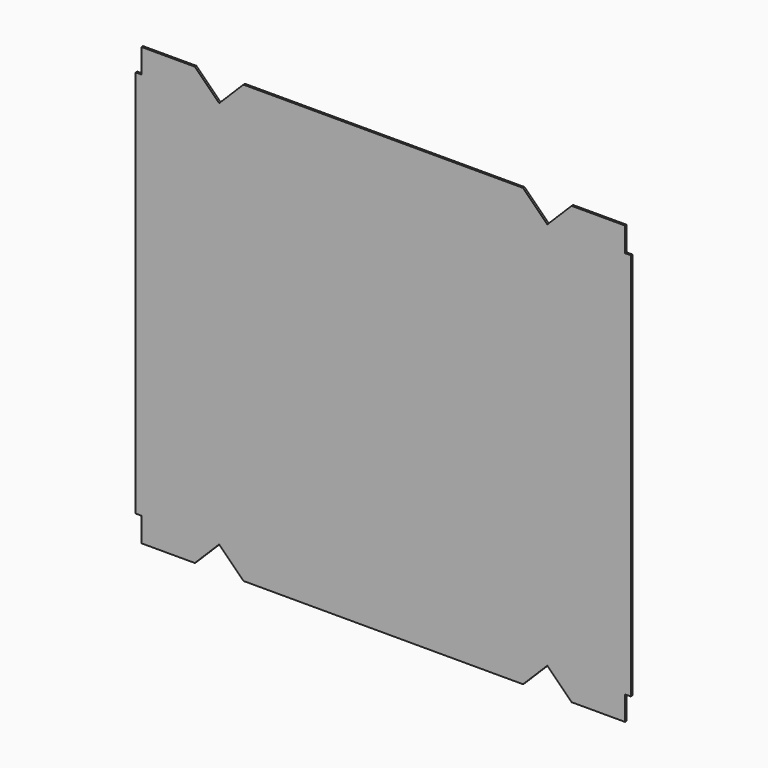
from build123d import *

# Parameters (mm, degrees)
F1_DEPTH = 2


with BuildPart() as f1:
    # F0 (on Front) → F1 (new body)
    with BuildSketch(Plane.XZ):
        Polygon((-191.476373, 251.428555), (-246.476373, 251.428555), (-246.476373, 226.428555), (-252.476373, 226.428555), (-252.476373, -173.571445), (-246.476373, -173.571445), (-246.476373, -198.571445), (-191.476373, -198.571445), (-166.476373, -173.571445), (-141.476373, -198.571445), (146.523627, -198.571445), (171.523627, -173.571445), (196.523627, -198.571445), (251.523627, -198.571445), (251.523627, -173.571445), (257.523627, -173.571445), (257.523627, 26.428555), (257.523627, 226.428555), (251.523627, 226.428555), (251.523627, 251.428555), (196.523627, 251.428555), (171.523627, 226.428555), (146.523627, 251.428555), (-141.476373, 251.428555), (-166.476373, 226.428555), align=None)
    extrude(amount=F1_DEPTH)


solid = f1.part
